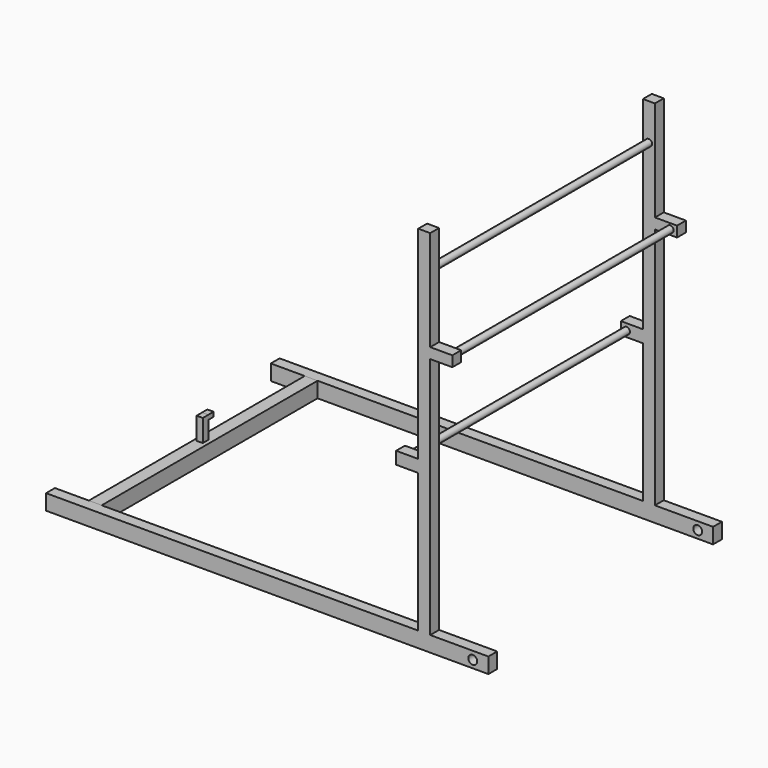
from build123d import *

# Parameters (mm, degrees)
F0_W      = 100
F0_H      = 3.5
F0_R      = 1
F1_DEPTH  = 2.5
F4_W      = 100
F4_H      = 3.5
F4_R      = 1
F5_DEPTH  = 2.5
F6_W      = 2.901047
F6_H      = 3.5
F7_DEPTH  = 61
F8_W      = 2.717946
F8_H      = 2.5
F9_DEPTH  = 80
F10_DEPTH = 80
F11_W     = 2.5
F11_H     = 2.375175
F12_DEPTH = 5
F13_W     = 2.5
F13_H     = 2.375175
F14_DEPTH = 5
F15_R     = 0.75
F16_DEPTH = 61
F17_W     = 2.5
F17_H     = 2.788253
F18_DEPTH = 5
F19_R     = 0.75
F20_DEPTH = 61
F21_W     = 2.5
F21_H     = 2.788253
F22_DEPTH = 5
F23_R     = 0.75
F24_DEPTH = 61
F25_W     = 1.408268
F25_H     = 1.564
F26_DEPTH = 5
F27_W     = 1.408268
F27_H     = 1.018011
F28_DEPTH = 1.5


with BuildPart() as f1:
    # F0 (on Front) → F1 (new body)
    with BuildSketch(Plane.XZ):
        with Locations((1.694917, 1.75)):
            Rectangle(F0_W, F0_H)
        with Locations((48.162378, 1.693871)):
            Circle(F0_R, mode=Mode.SUBTRACT)
    extrude(amount=F1_DEPTH)

    # F8 (on face) → F9 (join)
    with BuildSketch(Plane.XY.offset(3.5)):
        with Locations((37.190838, -1.25)):
            Rectangle(F8_W, F8_H)
    extrude(amount=F9_DEPTH)

    # F11 (on face) → F12 (join)
    with BuildSketch(Plane.YZ.offset(38.549811)):
        with Locations((-1.25, 59.615457)):
            Rectangle(F11_W, F11_H)
    extrude(amount=F12_DEPTH)

    # F21 (on face) → F22 (join)
    with BuildSketch(Plane(origin=(35.831865, 0, 0), x_dir=(0, -1, 0), z_dir=(-1, 0, 0))):
        with Locations((1.25, 36.276765)):
            Rectangle(F21_W, F21_H)
    extrude(amount=F22_DEPTH)


with BuildPart() as f5:
    # F4 (on plane+point) → F5 (new body)
    with BuildSketch(Plane.XZ.offset(-61)):
        with Locations((1.694917, 1.75)):
            Rectangle(F4_W, F4_H)
        with Locations((48.212361, 1.719477)):
            Circle(F4_R, mode=Mode.SUBTRACT)
    extrude(amount=-F5_DEPTH)

    # F8 (on face) → F10 (join)
    with BuildSketch(Plane.XY.offset(3.5)):
        with Locations((37.190838, 62.25)):
            Rectangle(F8_W, F8_H)
    extrude(amount=F10_DEPTH)

    # F13 (on face) → F14 (join)
    with BuildSketch(Plane.YZ.offset(38.549811)):
        with Locations((62.25, 59.615457)):
            Rectangle(F13_W, F13_H)
    extrude(amount=F14_DEPTH)

    # F17 (on face) → F18 (join)
    with BuildSketch(Plane(origin=(35.831865, 0, 0), x_dir=(0, -1, 0), z_dir=(-1, 0, 0))):
        with Locations((-62.25, 36.276765)):
            Rectangle(F17_W, F17_H)
    extrude(amount=F18_DEPTH)


with BuildPart() as f7:
    # F6 (on face) → F7 (new body, through all)
    with BuildSketch(Plane.XZ.offset(-61)):
        with Locations((-39.183256, 1.75)):
            Rectangle(F6_W, F6_H)
    extrude(amount=F7_DEPTH)

    # F25 (on face) → F26 (join)
    with BuildSketch(Plane.XY.offset(3.5)):
        with Locations((-39.359858, 30.5)):
            Rectangle(F25_W, F25_H)
    extrude(amount=F26_DEPTH)

    # F27 (on face) → F28 (join)
    with BuildSketch(Plane(origin=(0, 31.282, 0), x_dir=(-1, 0, 0), z_dir=(0, 1, 0))):
        with Locations((39.359858, 7.990994)):
            Rectangle(F27_W, F27_H)
    extrude(amount=F28_DEPTH)


with BuildPart() as f16:
    # F15 (on face) → F16 (new body, through all)
    with BuildSketch(Plane(origin=(0, 0, 0), x_dir=(-1, 0, 0), z_dir=(0, 1, 0))):
        with Locations((-42.027365, 59.615457)):
            Circle(F15_R)
    extrude(amount=F16_DEPTH)


with BuildPart() as f20:
    # F19 (on face) → F20 (new body, through all)
    with BuildSketch(Plane(origin=(0, 0, 0), x_dir=(-1, 0, 0), z_dir=(0, 1, 0))):
        with Locations((-37.146874, 75.2334)):
            Circle(F19_R)
    extrude(amount=F20_DEPTH)


with BuildPart() as f24:
    # F23 (on face) → F24 (new body, through all)
    with BuildSketch(Plane(origin=(0, 0, 0), x_dir=(-1, 0, 0), z_dir=(0, 1, 0))):
        with Locations((-32.149564, 36.202215)):
            Circle(F23_R)
    extrude(amount=F24_DEPTH)


solid = Compound([f1.part, f5.part, f7.part, f16.part, f20.part, f24.part])
